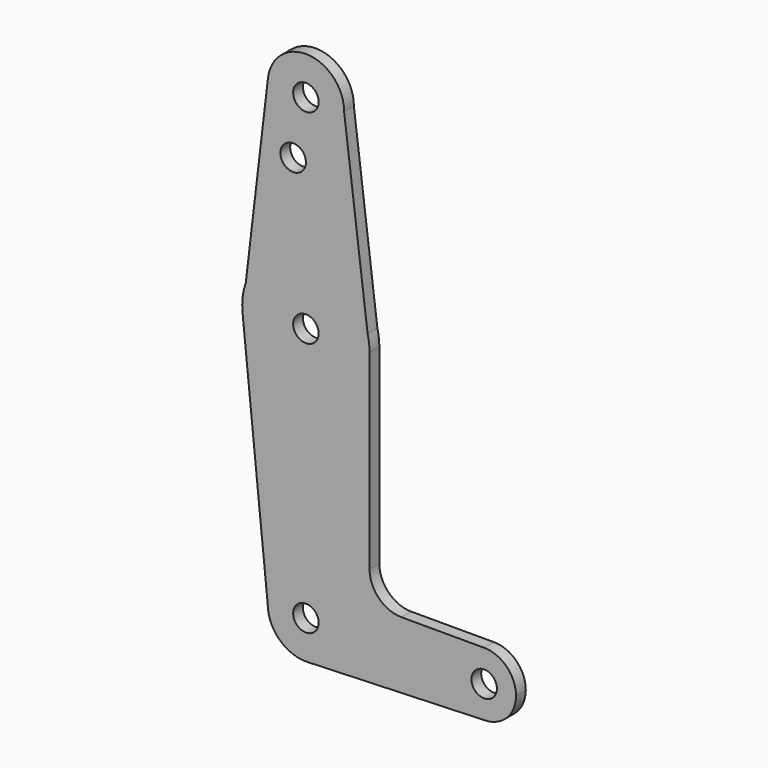
from build123d import *

# Parameters (mm, degrees)
F0_R     = 3.175
F1_DEPTH = 3.048


with BuildPart() as f1:
    # F0 (on Front) → F1 (new body)
    with BuildSketch(Plane.XZ):
        with BuildLine():
            ThreePointArc((-9.4589602313, 115.4196858236), (-0.5608158331, 104.7915242756), (9.525, 114.3))
            ThreePointArc((9.525, 114.3), (0.5608158331, 123.8084757244), (-9.4589602313, 115.4196858236))
        make_face()
        with Locations((0, 114.3)):
            Circle(F0_R, mode=Mode.SUBTRACT)
        with BuildLine():
            Line((15.3865384615, 67.4076923077), (9.525, 114.3))
            ThreePointArc((9.525, 114.3), (-0.5608158331, 104.7915242756), (-9.4589602313, 115.4196858236))
            Line((-9.4589602313, 115.4196858236), (-14.9842264132, 68.7429556358))
            ThreePointArc((-14.9842264132, 68.7429556358), (0.6972774089, 79.3596793541), (15.3865384615, 67.4076923077))
        make_face()
        with Locations((-3.175, 100.0252)):
            Circle(F0_R, mode=Mode.SUBTRACT)
        with BuildLine():
            Line((15.875, 63.5), (15.3865384615, 67.4076923077))
            ThreePointArc((15.3865384615, 67.4076923077), (0.6972774089, 79.3596793541), (-14.9842264132, 68.7429556358))
            Line((-14.9842264132, 68.7429556358), (-15.7942028036, 61.9003804205))
            ThreePointArc((-15.7942028036, 61.9003804205), (0.8008294116, 47.6452121662), (15.875, 63.5))
        make_face()
        with Locations((0, 63.5)):
            Circle(F0_R, mode=Mode.SUBTRACT)
        with BuildLine():
            ThreePointArc((15.875, 63.5), (15.7524112928, 65.4690514116), (15.3865384615, 67.4076923077))
            Line((15.3865384615, 67.4076923077), (15.875, 63.5))
        make_face()
        with BuildLine():
            Line((-15.7942028036, 61.9003804205), (-14.9842264132, 68.7429556358))
            ThreePointArc((-14.9842264132, 68.7429556358), (-15.7649337188, 65.3661430393), (-15.7942028036, 61.9003804205))
        make_face()
        with BuildLine():
            Line((15.875, 15.8877), (15.875, 63.5))
            ThreePointArc((15.875, 63.5), (0.8008294116, 47.6452121662), (-15.7942028036, 61.9003804205))
            Line((-15.7942028036, 61.9003804205), (-9.525, 0))
            ThreePointArc((-9.525, 0), (0, 9.525), (9.525, 0))
            ThreePointArc((9.525, 0), (6.854787681, -6.6134341191), (0.3412706881, -9.5188843526))
            Line((0.3412706881, -9.5188843526), (44.45, -7.9375))
            ThreePointArc((44.45, -7.9375), (36.5125, 0), (44.45, 7.9375))
            Line((44.45, 7.9375), (23.8252, 7.9375))
            ThreePointArc((23.8252, 7.9375), (18.2035596682, 10.2660596682), (15.875, 15.8877))
        make_face()
        with BuildLine():
            ThreePointArc((9.525, 0), (0, 9.525), (-9.525, 0))
            ThreePointArc((-9.525, 0), (-6.6134341191, -6.854787681), (0.3412706881, -9.5188843526))
            ThreePointArc((0.3412706881, -9.5188843526), (6.854787681, -6.6134341191), (9.525, 0))
        make_face()
        Circle(F0_R, mode=Mode.SUBTRACT)
        with BuildLine():
            ThreePointArc((52.3875, 0), (50.0626600757, 5.6126600757), (44.45, 7.9375))
            ThreePointArc((44.45, 7.9375), (36.5125, 0), (44.45, -7.9375))
            ThreePointArc((44.45, -7.9375), (50.0626600757, -5.6126600757), (52.3875, 0))
        make_face()
        with Locations((44.45, 0)):
            Circle(F0_R, mode=Mode.SUBTRACT)
    extrude(amount=F1_DEPTH)


solid = f1.part
